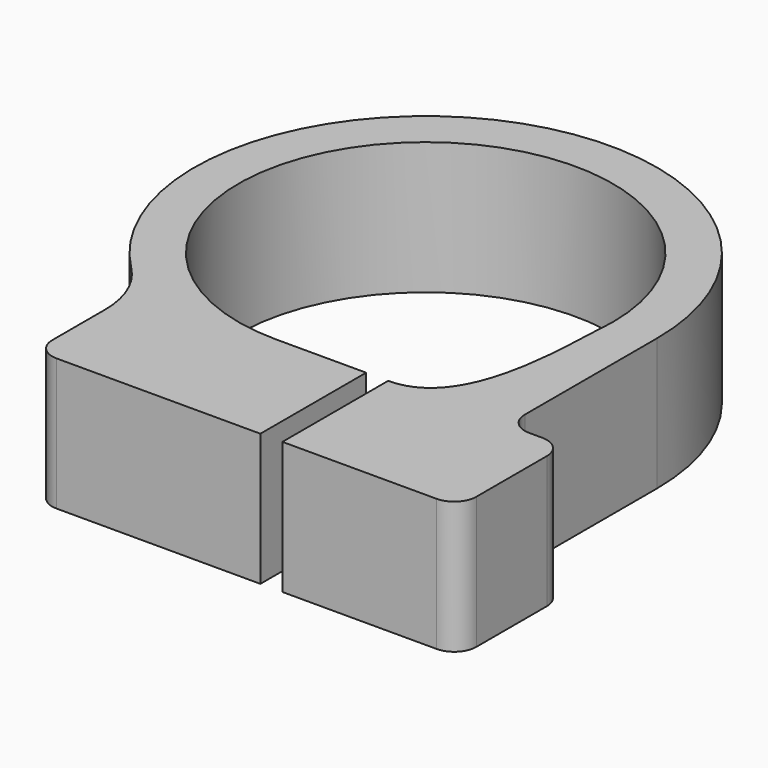
from build123d import *

# Parameters (mm, degrees)
F1_DEPTH = 9.525


with BuildPart() as f1:
    # F0 (on Top) → F1 (new body)
    with BuildSketch(Plane.XY):
        with BuildLine():
            ThreePointArc((0, -13.49375), (-9.541522, 9.541522), (13.49375, 0))
            add(Edge.make_bspline(
                [(8.091652, -13.49375), (13.864147, -13.49375), (13.182361, -2.882126), (13.49375, 0)],
                knots=[0, 0, 0, 0, 14.534922, 14.534922, 14.534922, 14.534922], degree=3))
            Line((8.091652, -13.49375), (8.091652, -23.01875))
            Line((8.091652, -23.01875), (19.204152, -23.01875))
            ThreePointArc((19.204152, -23.01875), (20.326684, -22.553782), (20.791652, -21.43125))
            Line((20.791652, -21.43125), (20.791652, -15.08125))
            ThreePointArc((20.791652, -15.08125), (20.326684, -13.958718), (19.204152, -13.49375))
            Line((19.204152, -13.49375), (18.25625, -13.49375))
            ThreePointArc((18.25625, -13.49375), (17.133718, -13.028782), (16.66875, -11.90625))
            Line((16.66875, -11.90625), (16.66875, 0))
            ThreePointArc((16.66875, 0), (-6.378854, 15.399917), (-11.786586, -11.786586))
            ThreePointArc((-11.786586, -11.786586), (-10.289896, -14.026542), (-9.764328, -16.66875))
            Line((-9.764328, -16.66875), (-9.764328, -21.43125))
            ThreePointArc((-9.764328, -21.43125), (-9.29936, -22.553782), (-8.176828, -23.01875))
            Line((-8.176828, -23.01875), (6.504152, -23.01875))
            Line((6.504152, -23.01875), (6.504152, -13.49375))
            Line((6.504152, -13.49375), (0, -13.49375))
        make_face()
    extrude(amount=F1_DEPTH)


solid = f1.part
